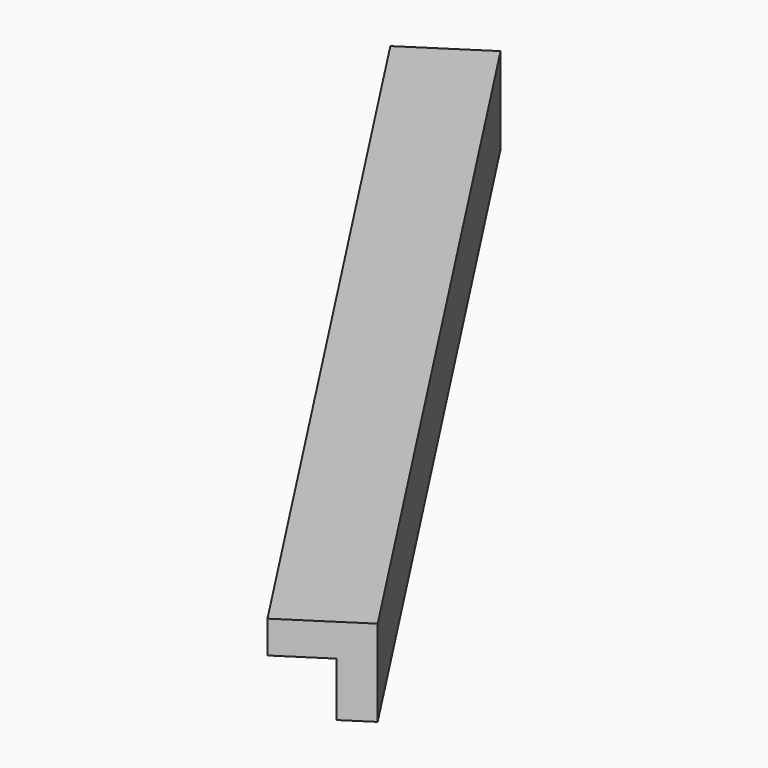
from build123d import *

# Parameters (mm, degrees)
BOX141_W               = 0.8
BOX141_H               = 9
BOX141_DEPTH           = 0.8
BOX142_W               = 0.8
BOX142_H               = 9
BOX142_DEPTH           = 0.8
CUT074_PLACEMENT_ANGLE = 33


with BuildPart() as cubo141:
    # Box141 → Box141 (new body)
    with BuildSketch(Plane.XY):
        with Locations((0.4, 4.5)):
            Rectangle(BOX141_W, BOX141_H)
    extrude(amount=BOX141_DEPTH)


with BuildPart() as obj1:
    # Box142 → Box142 (new body)
    with BuildSketch(Plane(origin=(0.3, 0, 0.3), x_dir=(1, 0, 0), z_dir=(0, 0, 1))):
        with Locations((0.4, 4.5)):
            Rectangle(BOX142_W, BOX142_H)
    extrude(amount=BOX142_DEPTH)

    # Cut074: cut Cubo141
    add(cubo141.part, mode=Mode.SUBTRACT)


with BuildPart() as obj1_1:
    # Cut074 placement: moved
    add(obj1.part.moved(Location((-123.4, 189.1, -1.45))).rotate(Axis((-123.4, 189.1, -1.45), (0, 0, 1)), CUT074_PLACEMENT_ANGLE))


solid = obj1_1.part
